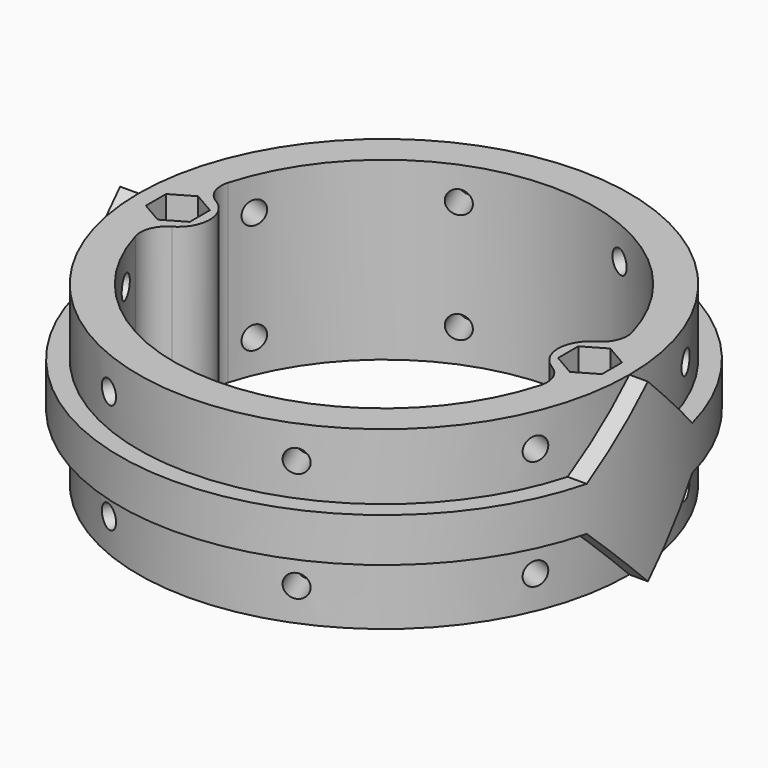
from build123d import *

# Parameters (mm, degrees)
SKETCH_R              = 30
PAD_DEPTH             = 5
SKETCH001_R           = 27.9
PAD001_DEPTH          = 7.5
SKETCH002_R           = 27.9
PAD002_DEPTH          = 7.5
PAD003_DEPTH          = 4
POLARPATTERN_COUNT    = 2
SKETCH005_R           = 34.916123
SKETCH005_R_2         = 29.99999
POCKET_DEPTH          = 20
POCKET001_DEPTH       = 12.5
SKETCH008_R           = 2.625
POCKET003_DEPTH       = 7.5
POLARPATTERN001_COUNT = 2
POCKET004_DEPTH       = 20.001
FILLET_R              = 3
SKETCH011_R           = 1.3
POCKET005_DEPTH       = 5
SKETCH012_R           = 1.3
POCKET006_DEPTH       = 5
POLARPATTERN002_COUNT = 4


with BuildPart() as part:
    # Sketch → Pad (new body)
    with BuildSketch(Plane.XY):
        Circle(SKETCH_R)
    extrude(amount=PAD_DEPTH)

    # Sketch001 (on Face2 of Pad) → Pad001 (join)
    with BuildSketch(Plane(origin=(0, 0, 0), x_dir=(1, 0, 0), z_dir=(0, 0, -1))):
        Circle(SKETCH001_R)
    extrude(amount=PAD001_DEPTH)

    # Sketch002 (on Face3 of Pad001) → Pad002 (join)
    with BuildSketch(Plane.XY.offset(5)):
        Circle(SKETCH002_R)
    extrude(amount=PAD002_DEPTH)

    # Sketch004 (on DatumPlane) → Pad003 (join)
    with BuildSketch(Plane(origin=(30, 0, 5), x_dir=(0, -1, 0), z_dir=(-1, 0, 0))):
        Polygon((-7.5, 0), (0, 7.5), (7.5, 0), align=None)
        Polygon((-7.5, -5), (7.5, -5), (0, -12.5), align=None)
    pad003 = extrude(amount=PAD003_DEPTH)

    # PolarPattern: Pad003 ×2 about axis
    polarpattern_axis = Axis((0, 0, 0), (0, 0, 1))
    for i in range(1, POLARPATTERN_COUNT):
        add(pad003.rotate(polarpattern_axis, i * 360 / POLARPATTERN_COUNT))

    # Sketch005 (on Face30 of PolarPattern) → Pocket (cut)
    with BuildSketch(Plane.XY.offset(12.5)):
        Circle(SKETCH005_R)
        Circle(SKETCH005_R_2, mode=Mode.SUBTRACT)
    extrude(amount=-POCKET_DEPTH, mode=Mode.SUBTRACT)

    # Sketch006 (on Face19 of Pocket) → Pocket001 (cut)
    with BuildSketch(Plane.XY.offset(12.5)):
        Polygon((23.4279, 2.875), (20.938077, 1.4375), (20.938077, -1.4375), (23.4279, -2.875), (25.917723, -1.4375), (25.917723, 1.4375), align=None)
    pocket001 = extrude(amount=-POCKET001_DEPTH, mode=Mode.SUBTRACT)

    # Sketch008 → Pocket003 (cut)
    with BuildSketch(Plane(origin=(0, 0, -7.5), x_dir=(1, 0, 0), z_dir=(0, 0, -1))):
        with Locations((23.4279, 0)):
            Circle(SKETCH008_R)
    pocket003 = extrude(amount=-POCKET003_DEPTH, mode=Mode.SUBTRACT)

    # PolarPattern001: Pocket001, Pocket003 ×2 about axis
    polarpattern001_axis = Axis((0, 0, 12.5), (0, 0, 1))
    for i in range(1, POLARPATTERN001_COUNT):
        add(pocket001.rotate(polarpattern001_axis, i * 360 / POLARPATTERN001_COUNT), mode=Mode.SUBTRACT)
        add(pocket003.rotate(polarpattern001_axis, i * 360 / POLARPATTERN001_COUNT), mode=Mode.SUBTRACT)

    # Sketch009 (on Face22 of PolarPattern001) → Pocket004 (cut, through all)
    with BuildSketch(Plane(origin=(0, 0, -7.5), x_dir=(1, 0, 0), z_dir=(0, 0, -1))):
        with BuildLine():
            ThreePointArc((-23.624308, -3.619675), (0, -23.9), (23.624308, -3.619675))
            ThreePointArc((23.624308, 3.619675), (19.8029, 0), (23.624308, -3.619675))
            ThreePointArc((23.624308, 3.619675), (0, 23.9), (-23.624308, 3.619675))
            ThreePointArc((-23.624308, -3.619675), (-19.8029, 0), (-23.624308, 3.619675))
        make_face()
    extrude(amount=-POCKET004_DEPTH, mode=Mode.SUBTRACT)

    # Fillet
    fillet_edges = [part.edges().sort_by_distance(p)[0] for p in [
        (23.624308, 3.619675, 2.5),
        (23.624308, -3.619675, 2.5),
        (-23.624308, 3.619675, 2.5),
        (-23.624308, -3.619675, 2.5),
    ]]
    fillet(fillet_edges, radius=FILLET_R)

    # Sketch011 (on DatumPlane) → Pocket005 (cut)
    with BuildSketch(Plane(origin=(25.776239, -10.676868, -7.5), x_dir=(-0.382683, -0.92388, 0), z_dir=(-0.92388, 0.382683, 0))):
        with Locations((0, 3.75)):
            Circle(SKETCH011_R)
        with Locations((0, 16.25)):
            Circle(SKETCH011_R)
    pocket005 = extrude(amount=POCKET005_DEPTH, mode=Mode.SUBTRACT)

    # Sketch012 (on DatumPlane) → Pocket006 (cut)
    with BuildSketch(Plane(origin=(10.676868, -25.776239, -7.5), x_dir=(-0.92388, -0.382683, 0), z_dir=(-0.382683, 0.92388, 0))):
        with Locations((0, 16.25)):
            Circle(SKETCH012_R)
        with Locations((0, 3.75)):
            Circle(SKETCH012_R)
    pocket006 = extrude(amount=POCKET006_DEPTH, mode=Mode.SUBTRACT)

    # PolarPattern002: Pocket005, Pocket006 ×4 about axis
    polarpattern002_axis = Axis((0, 0, 0), (0, 0, 1))
    for i in range(1, POLARPATTERN002_COUNT):
        add(pocket005.rotate(polarpattern002_axis, i * 360 / POLARPATTERN002_COUNT), mode=Mode.SUBTRACT)
        add(pocket006.rotate(polarpattern002_axis, i * 360 / POLARPATTERN002_COUNT), mode=Mode.SUBTRACT)


solid = part.part
